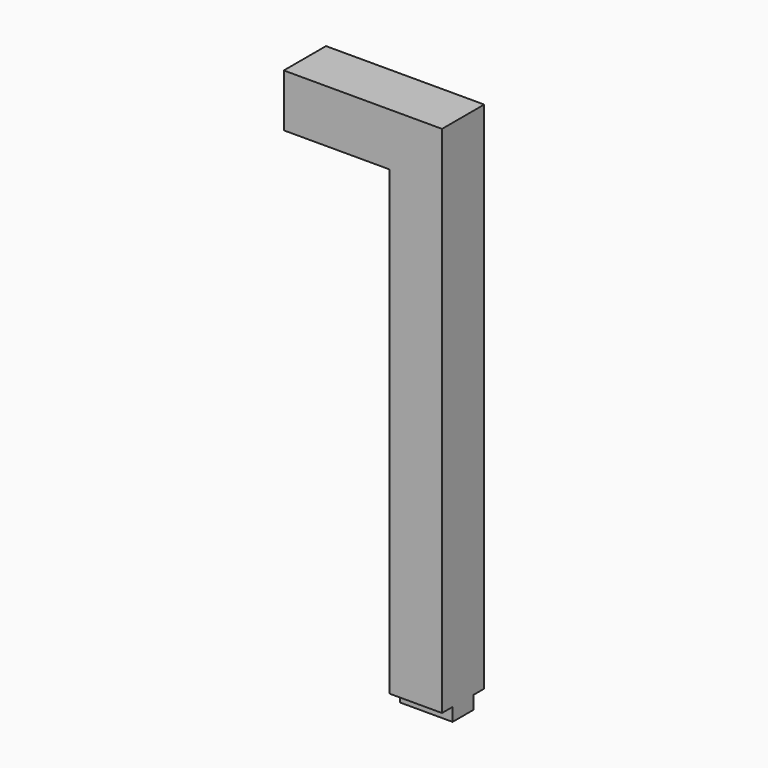
from build123d import *

# Parameters (mm, degrees)
F0_W     = 20
F0_H     = 195
F1_DEPTH = 20
F2_W     = 20
F2_H     = 10
F3_DEPTH = 5
F4_W     = 20
F4_H     = 20
F5_DEPTH = 40


with BuildPart() as f1:
    # F0 (on Right) → F1 (new body)
    with BuildSketch(Plane.YZ):
        Rectangle(F0_W, F0_H)
    extrude(amount=F1_DEPTH)

    # F2 (on face) → F3 (join)
    with BuildSketch(Plane(origin=(0, 0, -97.5), x_dir=(1, 0, 0), z_dir=(0, 0, -1))):
        with Locations((10, 0)):
            Rectangle(F2_W, F2_H)
    extrude(amount=F3_DEPTH)

    # F4 (on face) → F5 (join)
    with BuildSketch(Plane(origin=(0, 0, 0), x_dir=(0, -1, 0), z_dir=(-1, 0, 0))):
        with Locations((0, 87.5)):
            Rectangle(F4_W, F4_H)
    extrude(amount=F5_DEPTH)


solid = f1.part
